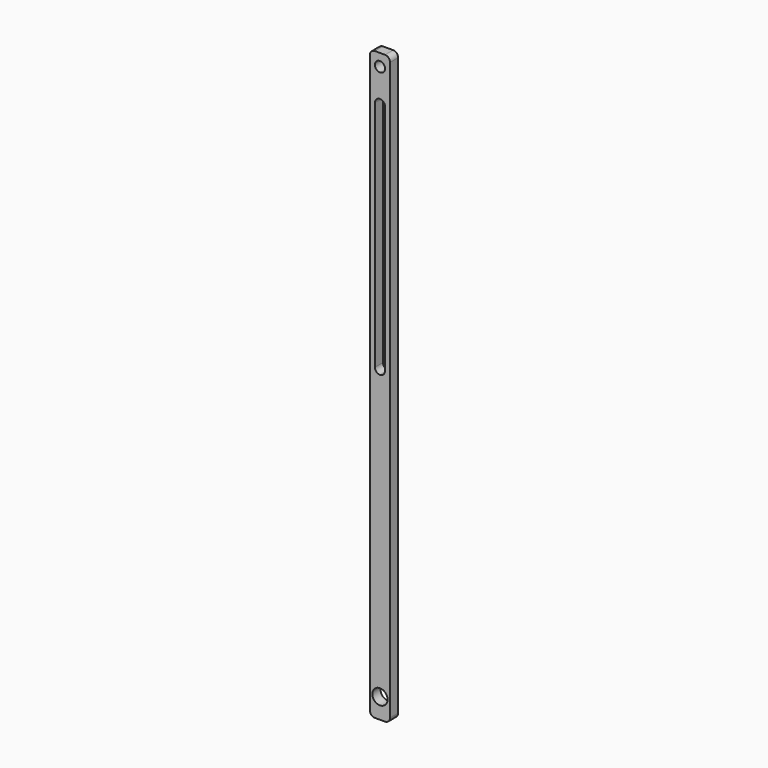
from build123d import *

# Parameters (mm, degrees)
F0_R     = 7.5
F0_R_2   = 5
F1_DEPTH = 10


with BuildPart() as f1:
    # F0 (on Front) → F1 (new body)
    with BuildSketch(Plane.XZ):
        with BuildLine():
            ThreePointArc((10, 285), (8.535534, 288.535534), (5, 290))
            Line((5, 290), (-5, 290))
            ThreePointArc((-5, 290), (-8.535534, 288.535534), (-10, 285))
            Line((-10, 285), (-10, -285))
            ThreePointArc((-10, -285), (-8.535534, -288.535534), (-5, -290))
            Line((-5, -290), (5, -290))
            ThreePointArc((5, -290), (8.535534, -288.535534), (10, -285))
            Line((10, -285), (10, 285))
        make_face()
        with Locations((0, -270)):
            Circle(F0_R, mode=Mode.SUBTRACT)
        with BuildLine():
            Line((5, 245), (5, 15))
            ThreePointArc((5, 15), (3.535534, 11.464466), (0, 10))
            ThreePointArc((0, 10), (-3.535534, 11.464466), (-5, 15))
            Line((-5, 15), (-5, 245))
            ThreePointArc((-5, 245), (-3.535534, 248.535534), (0, 250))
            ThreePointArc((0, 250), (3.535534, 248.535534), (5, 245))
        make_face(mode=Mode.SUBTRACT)
        with Locations((0, 278)):
            Circle(F0_R_2, mode=Mode.SUBTRACT)
    extrude(amount=F1_DEPTH)


solid = f1.part
